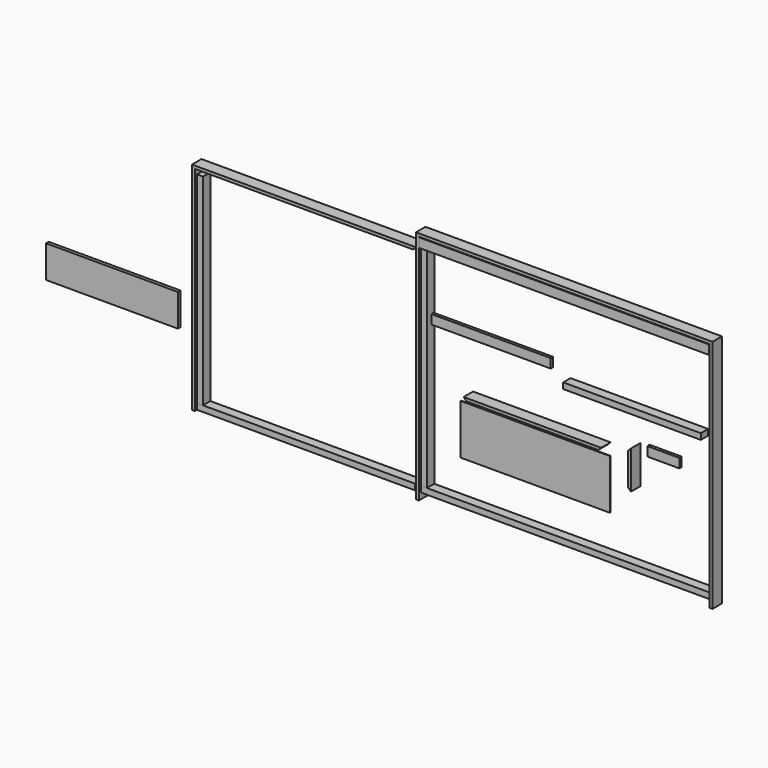
from build123d import *

# Parameters (mm, degrees)
F1_W      = 2206
F1_H      = 45
F2_DEPTH  = 70
F3_W      = 45
F3_H      = 1673
F4_DEPTH  = 70
F6_DEPTH  = 90
F8_DEPTH  = 90
F10_DEPTH = 90
F11_W     = 2200
F11_H     = 70
F12_DEPTH = 22
F13_W     = 1044
F13_H     = 45
F14_DEPTH = 70
F15_W     = 906
F15_H     = 70
F16_DEPTH = 22
F17_W     = 244
F17_H     = 70
F18_DEPTH = 22
F20_DEPTH = 90
F22_DEPTH = 90
F23_W     = 1134
F23_H     = 379
F24_DEPTH = 5
F25_W     = 1000
F25_H     = 245
F26_DEPTH = 25
F27_W     = 1656
F27_H     = 45
F28_DEPTH = 70
F29_W     = 45
F29_H     = 1528
F30_DEPTH = 70
F32_DEPTH = 90
F34_DEPTH = 90


with BuildPart() as f2:
    # F1 (on face) → F2 (new body)
    with BuildSketch(Plane.XZ):
        with Locations((1125, 22.5)):
            Rectangle(F1_W, F1_H)
    extrude(amount=F2_DEPTH)


with BuildPart() as f4:
    # F3 (on face) → F4 (new body)
    with BuildSketch(Plane.XZ):
        with Locations((44.5, 881.5)):
            Rectangle(F3_W, F3_H)
    extrude(amount=F4_DEPTH)


with BuildPart() as f6:
    # F5 (on face) → F6 (new body)
    with BuildSketch(Plane.XZ):
        Polygon((2250, 1740), (0, 1740), (22, 1718), (2228, 1718), align=None)
    extrude(amount=F6_DEPTH)


with BuildPart() as f8:
    # F7 (on face) → F8 (new body)
    with BuildSketch(Plane.XZ):
        Polygon((2250, -45), (2250, 1740), (2228, 1718), (2228, -45), align=None)
    extrude(amount=F8_DEPTH)


with BuildPart() as f10:
    # F9 (on face) → F10 (new body)
    with BuildSketch(Plane.XZ):
        Polygon((22, 1718), (0, 1740), (0, -45), (22, -45), align=None)
    extrude(amount=F10_DEPTH)


with BuildPart() as f12:
    # F11 (on face) → F12 (new body)
    with BuildSketch(Plane.XZ.offset(70)):
        with Locations((1125, 1680)):
            Rectangle(F11_W, F11_H)
    extrude(amount=F12_DEPTH)


with BuildPart() as f14:
    # F13 (on face) → F14 (new body)
    with BuildSketch(Plane.XZ):
        with Locations((1623.64778, 1064.865232)):
            Rectangle(F13_W, F13_H)
    extrude(amount=F14_DEPTH)


with BuildPart() as f16:
    # F15 (on face) → F16 (new body)
    with BuildSketch(Plane.XZ.offset(92)):
        with Locations((588.688204, 1212.805476)):
            Rectangle(F15_W, F15_H)
    extrude(amount=F16_DEPTH)


with BuildPart() as f18:
    # F17 (on face) → F18 (new body)
    with BuildSketch(Plane.XZ.offset(92)):
        with Locations((1896.647818, 863.533348)):
            Rectangle(F17_W, F17_H)
    extrude(amount=F18_DEPTH)


with BuildPart() as f20:
    # F19 (on face) → F20 (new body)
    with BuildSketch(Plane.XZ):
        Polygon((1631.487687, 537.344146), (1631.487687, 826.344146), (1609.487687, 804.344146), (1609.487687, 559.344146), align=None)
    extrude(amount=F20_DEPTH)


with BuildPart() as f22:
    # F21 (on face) → F22 (new body)
    with BuildSketch(Plane.XZ):
        Polygon((1405.275234, 757.167445), (361.275234, 757.167445), (383.275234, 735.167445), (1383.275234, 735.167445), align=None)
    extrude(amount=F22_DEPTH)


with BuildPart() as f24:
    # F23 (on face) → F24 (new body)
    with BuildSketch(Plane.XZ):
        with Locations((837.989956, 477.315173)):
            Rectangle(F23_W, F23_H)
    extrude(amount=F24_DEPTH)


with BuildPart() as f26:
    # F25 (on face) → F26 (new body)
    with BuildSketch(Plane.XZ):
        with Locations((-2359.25585, 587.467998)):
            Rectangle(F25_W, F25_H)
    extrude(amount=F26_DEPTH)


with BuildPart() as f28:
    # F27 (on face) → F28 (new body)
    with BuildSketch(Plane.XZ):
        with Locations((-850, 22.5)):
            Rectangle(F27_W, F27_H)
    extrude(amount=F28_DEPTH)


with BuildPart() as f30:
    # F29 (on face) → F30 (new body)
    with BuildSketch(Plane.XZ):
        with Locations((-1655.5, 809)):
            Rectangle(F29_W, F29_H)
    extrude(amount=F30_DEPTH)


with BuildPart() as f32:
    # F31 (on face) → F32 (new body)
    with BuildSketch(Plane.XZ):
        Polygon((-1678, 1618), (-1700, 1640), (-1700, 0), (-1678, 0), align=None)
    extrude(amount=F32_DEPTH)


with BuildPart() as f34:
    # F33 (on face) → F34 (new body)
    with BuildSketch(Plane.XZ):
        Polygon((0, 1640), (-1700, 1640), (-1678, 1618), (-22, 1618), align=None)
    extrude(amount=F34_DEPTH)


solid = Compound([f2.part, f4.part, f6.part, f8.part, f10.part, f12.part, f14.part, f16.part, f18.part, f20.part, f22.part, f24.part, f26.part, f28.part, f30.part, f32.part, f34.part])
